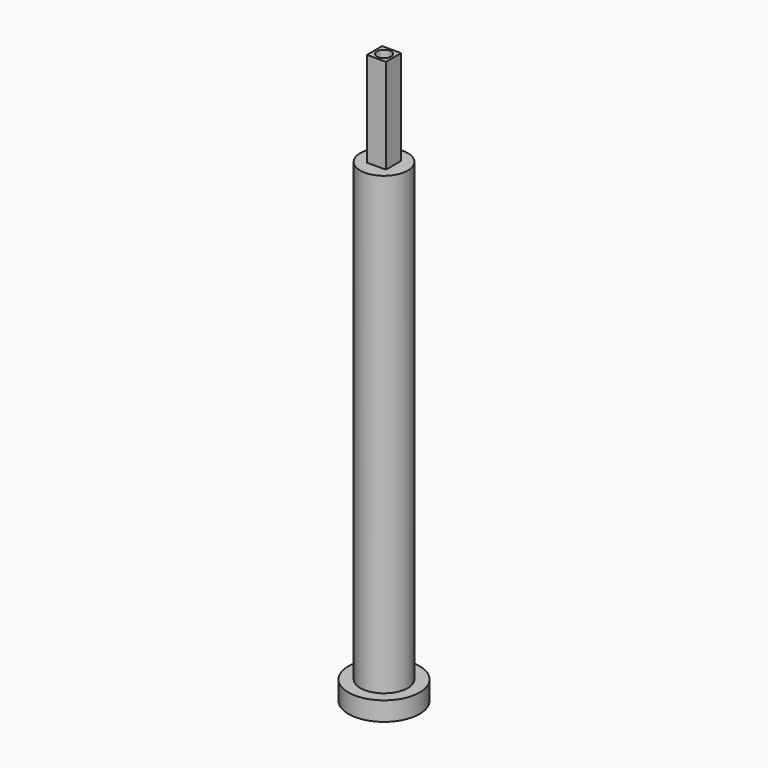
from build123d import *

# Parameters (mm, degrees)
F0_R     = 7.5
F1_DEPTH = 4
F2_R     = 5
F3_DEPTH = 100
F4_W     = 4
F4_H     = 4
F5_DEPTH = 20
F6_R     = 1.5
F7_DEPTH = 122.4


with BuildPart() as f1:
    # F0 (on Top) → F1 (new body)
    with BuildSketch(Plane.XY):
        Circle(F0_R)
    extrude(amount=F1_DEPTH)

    # F2 (on Top) → F3 (join)
    with BuildSketch(Plane.XY):
        Circle(F2_R)
    extrude(amount=F3_DEPTH)

    # F4 (on face) → F5 (join)
    with BuildSketch(Plane.XY.offset(100)):
        Rectangle(F4_W, F4_H)
    extrude(amount=F5_DEPTH)

    # F6 (on face) → F7 (cut)
    with BuildSketch(Plane(origin=(0, 0, 0), x_dir=(1, 0, 0), z_dir=(0, 0, -1))):
        Circle(F6_R)
    extrude(amount=-F7_DEPTH, mode=Mode.SUBTRACT)


solid = f1.part
